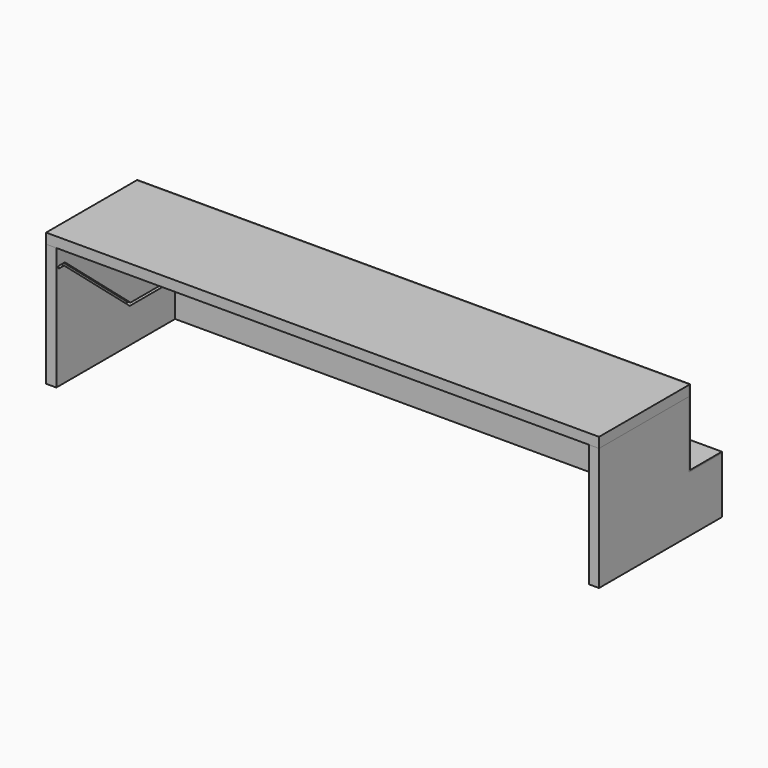
from build123d import *

# Parameters (mm, degrees)
F2_DEPTH  = 25.4
F6_W      = 25.4
F6_H      = 6.35
F10_W     = 1371.6
F10_H     = 279.4
F11_DEPTH = 25.4
F13_W     = 1371.6
F13_H     = 101.6
F14_DEPTH = 3.175
F16_W     = 1371.6
F16_H     = 187.325
F17_DEPTH = 3.175
F19_W     = 1320.8
F19_H     = 139.7
F20_DEPTH = 12.7


with BuildPart() as f2:
    # F1 (on offset) → F2 (new body)
    with BuildSketch(Plane.YZ.offset(685.8)):
        Polygon((0, 304.8), (0, 0), (381, 0), (381, 139.7), (279.4, 139.7), (279.4, 304.8), align=None)
    extrude(amount=-F2_DEPTH)

    # F7: sweep along a path in F4
    with BuildLine(Plane(origin=(660.4, 0, 0), x_dir=(0, -1, 0), z_dir=(-1, 0, 0))) as f7_path:
        Line((-359.41, 88.9), (-228.9274356335, 88.9))
        Line((-228.9274356335, 88.9), (-25.4, 259.6797961745))
        Line((-25.4, 259.6797961745), (-6.35, 259.6797961745))
    # F6 (on line) → F7 (sweep, cut)
    with BuildSketch(Plane(origin=(0, 359.41, 0), x_dir=(-1, 0, 0), z_dir=(0, 1, 0))):
        with Locations((-660.4, 88.9)):
            Rectangle(F6_W, F6_H)
    sweep(path=f7_path.line, transition=Transition.RIGHT, mode=Mode.SUBTRACT)


with BuildPart() as f8_1:
    # F8: instance of F2
    add(f2.part.mirror(Plane.YZ))


with BuildPart() as f11:
    # F10 (on offset) → F11 (new body)
    with BuildSketch(Plane.XY.offset(330.2)):
        with Locations((0, 139.7)):
            Rectangle(F10_W, F10_H)
    extrude(amount=-F11_DEPTH)


with BuildPart() as f14:
    # F13 (on offset) → F14 (new body, through all)
    with BuildSketch(Plane.XY.offset(142.875)):
        with Locations((0, 330.2)):
            Rectangle(F13_W, F13_H)
    extrude(amount=-F14_DEPTH)


with BuildPart() as f17:
    # F16 (on offset) → F17 (new body, through all)
    with BuildSketch(Plane(origin=(0, 282.575, 0), x_dir=(-1, 0, 0), z_dir=(0, 1, 0))):
        with Locations((0, 236.5375)):
            Rectangle(F16_W, F16_H)
    extrude(amount=-F17_DEPTH)


with BuildPart() as f20:
    # F19 (on offset) → F20 (new body)
    with BuildSketch(Plane(origin=(0, 381, 0), x_dir=(-1, 0, 0), z_dir=(0, 1, 0))):
        with Locations((0, 69.85)):
            Rectangle(F19_W, F19_H)
    extrude(amount=-F20_DEPTH)


solid = Compound([f2.part, f8_1.part, f11.part, f14.part, f17.part, f20.part])
